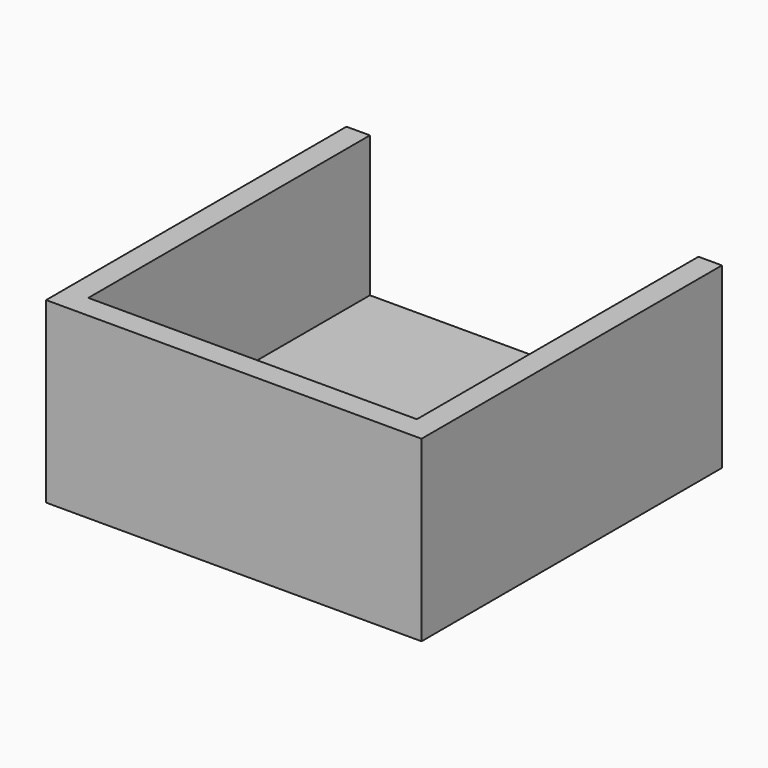
from build123d import *

# Parameters (mm, degrees)
F0_W     = 80
F0_H     = 80
F0_W_2   = 30
F0_H_2   = 6
F1_DEPTH = 8
F2_W     = 70
F2_H     = 5
F3_DEPTH = 30
F4_R     = 3
F5_DEPTH = 2


with BuildPart() as f1:
    # F0 (on Top) → F1 (new body)
    with BuildSketch(Plane.XY):
        with Locations((-40, 40)):
            Rectangle(F0_W, F0_H)
        with Locations((-40, 40)):
            Rectangle(F0_W_2, F0_H_2, mode=Mode.SUBTRACT)
    extrude(amount=F1_DEPTH)

    # F2 (on face) → F3 (join)
    with BuildSketch(Plane.XY.offset(8)):
        Polygon((-80, 80), (-80, 0), (-75, 0), (-75, 5), (-75, 80), align=None)
        with Locations((-40, 2.5)):
            Rectangle(F2_W, F2_H)
        Polygon((-5, 5), (-5, 0), (0, 0), (0, 80), (-5, 80), align=None)
    extrude(amount=F3_DEPTH)

    # F4 (on face) → F5 (join)
    with BuildSketch(Plane(origin=(0, 0, 0), x_dir=(1, 0, 0), z_dir=(0, 0, -1))):
        with Locations((-67.5, -40)):
            Circle(F4_R)
        with Locations((-12.5, -40)):
            Circle(F4_R)
    extrude(amount=F5_DEPTH)


solid = f1.part
